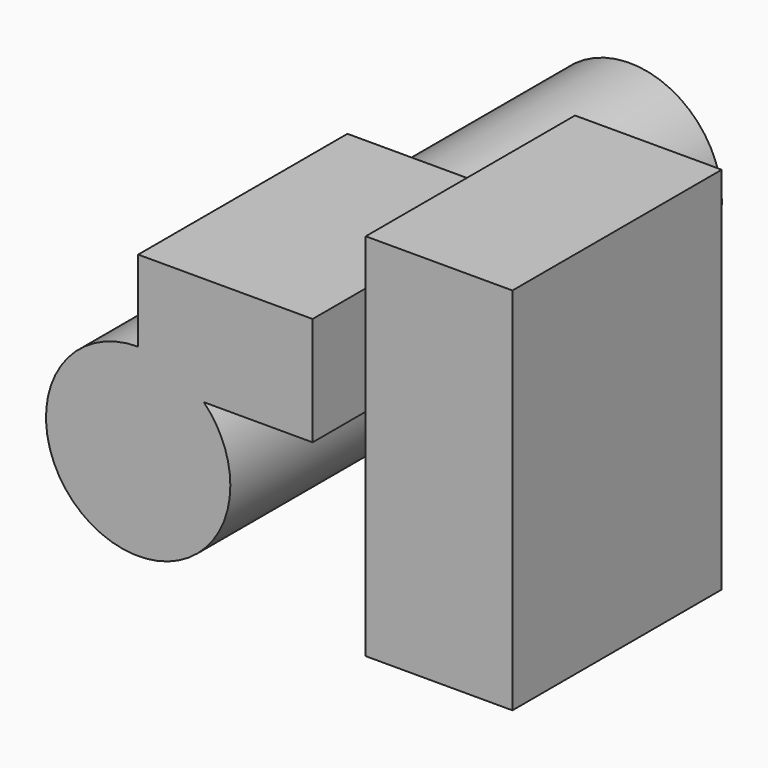
from build123d import *

# Parameters (mm, degrees)
F0_R     = 15
F1_DEPTH = 100
F3_W     = 28.386235
F3_H     = 17.670899
F3_W_2   = 23.874506
F3_H_2   = 60.156256
F4_DEPTH = 42.56963


with BuildPart() as f1:
    # F0 (on Front) → F1 (new body)
    with BuildSketch(Plane.XZ):
        Circle(F0_R)
    extrude(amount=F1_DEPTH)

    # F3 (on face) → F4 (join)
    with BuildSketch(Plane.XZ.offset(100)):
        with Locations((14.193117, 19.362777)):
            Rectangle(F3_W, F3_H)
        with Locations((48.970945, 12.783185)):
            Rectangle(F3_W_2, F3_H_2)
    extrude(amount=-F4_DEPTH)


solid = f1.part
